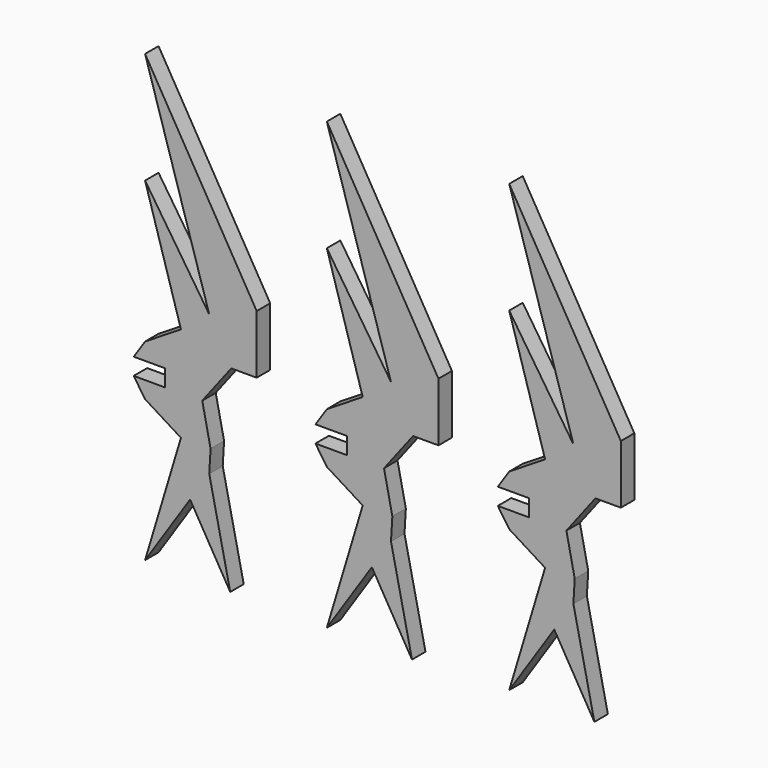
from build123d import *

# Parameters (mm, degrees)
F1_DEPTH = 2.7


with BuildPart() as f1:
    # F0 (on Front) → F1 (new body)
    with BuildSketch(Plane.XZ):
        Polygon((10.264915, 11.229291), (0, 26.732817), (5.73944, 7.635733), (0, 4.059977), (-1.812594, 1.331323), (0, 1.331323), (3.19931, 1.331323), (3.19931, -1.368677), (0, -1.368677), (-1.8231, -1.368677), (0, -4.059977), (5.73944, -7.635733), (0, -26.732817), (5.132457, -18.981054), (7.207236, -15.84743), (13.625177, -26.778835), (10.264915, -11.229291), (10.481588, -7.625337), (9.147359, -1.289408), (13.793755, 4.76924), (17.857403, 4.76924), (17.857403, 14.158794), (0, 44.574544), align=None)
        Polygon((-18.815528, 11.299704), (-29.080443, 26.803229), (-23.341003, 7.706146), (-29.080443, 4.13039), (-30.893037, 1.401736), (-29.080443, 1.401736), (-25.881133, 1.401736), (-25.881133, -1.298264), (-29.080443, -1.298264), (-30.903543, -1.298264), (-29.080443, -3.989565), (-23.341003, -7.56532), (-29.080443, -26.662404), (-23.947986, -18.910641), (-21.873208, -15.777017), (-15.455266, -26.708422), (-18.815528, -11.158878), (-18.598855, -7.554924), (-19.933085, -1.218995), (-15.286688, 4.839653), (-11.22304, 4.839653), (-11.22304, 14.229207), (-29.080443, 44.644957), align=None)
        Polygon((39.444231, 11.939524), (29.179316, 27.44305), (34.918756, 8.345966), (29.179316, 4.770211), (27.366722, 2.041557), (29.179316, 2.041557), (32.378626, 2.041557), (32.378626, -0.658443), (29.179316, -0.658443), (27.356216, -0.658443), (29.179316, -3.349744), (34.918756, -6.9255), (29.179316, -26.022583), (34.311773, -18.27082), (36.386552, -15.137197), (42.804493, -26.068601), (39.444231, -10.519057), (39.660904, -6.915104), (38.326675, -0.579175), (42.973071, 5.479473), (47.036719, 5.479473), (47.036719, 14.869027), (29.179316, 45.284778), align=None)
    extrude(amount=F1_DEPTH)


solid = f1.part
